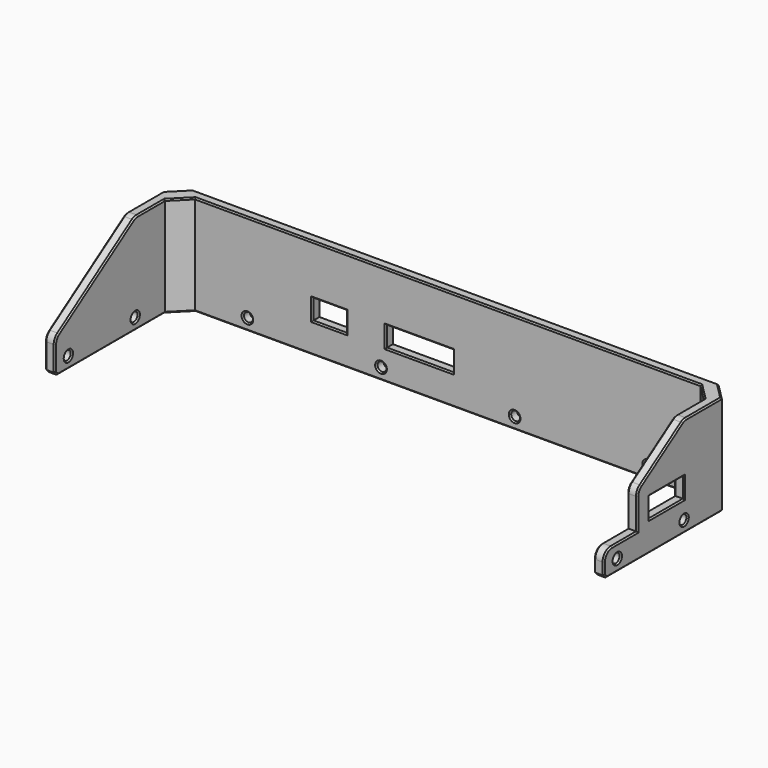
from build123d import *

# Parameters (mm, degrees)
PAD010_DEPTH          = 30
CHAMFER036003003_SIZE = 5
POCKET008013_DEPTH    = 167.301
SKETCH022_R           = 1.35
POCKET008014_DEPTH    = 49.151
SKETCH023_R           = 1.35
POCKET008015_DEPTH    = 167.301
SKETCH024_W           = 13
SKETCH024_H           = 6
POCKET008016_DEPTH    = 5
SKETCH025_W           = 20
SKETCH025_H           = 6
SKETCH025_W_2         = 10
POCKET008017_DEPTH    = 5
CHAMFER036003004_SIZE = 1
FILLET002_R           = 3
SKETCH037_W           = 15
SKETCH037_H           = 15
POCKET008026_DEPTH    = 5
FILLET006_R           = 3
FILLET007_R           = 3
CHAMFER036003010_SIZE = 0.4


with BuildPart() as part:
    # Sketch020 → Pad010 (new body)
    with BuildSketch(Plane.XY):
        Polygon((-80.65, -5), (-80.65, 41.15), (80.65, 41.15), (80.65, -5), (83.65, -5), (83.65, 44.15), (-83.65, 44.15), (-83.65, -5), align=None)
    extrude(amount=PAD010_DEPTH)

    # Chamfer036003003
    chamfer036003003_edges = [part.edges().sort_by_distance(p)[0] for p in [
        (-83.65, 44.15, 15),
        (-80.65, 41.15, 15),
        (80.65, 41.15, 15),
        (83.65, 44.15, 15),
    ]]
    chamfer(chamfer036003003_edges, length=CHAMFER036003003_SIZE)

    # Sketch021 (on Face14 of Chamfer036003003) → Pocket008013 (cut, through all)
    with BuildSketch(Plane.YZ.offset(83.65)):
        Polygon((-5, 10), (25, 30), (-5, 30), align=None)
    extrude(amount=-POCKET008013_DEPTH, mode=Mode.SUBTRACT)

    # Sketch022 (on Face10 of Pocket008013) → Pocket008014 (cut, through all)
    with BuildSketch(Plane(origin=(0, 44.15, 0), x_dir=(-1, 0, 0), z_dir=(0, 1, 0))):
        with Locations((-60, 3.5)):
            Circle(SKETCH022_R)
        with Locations((-20, 3.5)):
            Circle(SKETCH022_R)
        with Locations((20, 3.5)):
            Circle(SKETCH022_R)
        with Locations((60, 3.5)):
            Circle(SKETCH022_R)
    extrude(amount=-POCKET008014_DEPTH, mode=Mode.SUBTRACT)

    # Sketch023 (on Face12 of Pocket008014) → Pocket008015 (cut, through all)
    with BuildSketch(Plane.YZ.offset(83.65)):
        with Locations((0, 3.5)):
            Circle(SKETCH023_R)
        with Locations((25, 3.5)):
            Circle(SKETCH023_R)
    extrude(amount=-POCKET008015_DEPTH, mode=Mode.SUBTRACT)

    # Sketch024 (on Face17 of Pocket008015) → Pocket008016 (cut)
    with BuildSketch(Plane.YZ.offset(83.65)):
        with Locations((18.5, 12)):
            Rectangle(SKETCH024_W, SKETCH024_H)
    extrude(amount=-POCKET008016_DEPTH, mode=Mode.SUBTRACT)

    # Sketch025 (on Face14 of Pocket008016) → Pocket008017 (cut)
    with BuildSketch(Plane(origin=(0, 44.15, 0), x_dir=(-1, 0, 0), z_dir=(0, 1, 0))):
        with Locations((8.5, 12)):
            Rectangle(SKETCH025_W, SKETCH025_H)
        with Locations((35.5, 12)):
            Rectangle(SKETCH025_W_2, SKETCH025_H)
    extrude(amount=-POCKET008017_DEPTH, mode=Mode.SUBTRACT)

    # Chamfer036003004
    chamfer036003004_edges = [part.edges().sort_by_distance(p)[0] for p in [
        (82.15, -5, 0),
        (-82.15, -5, 0),
    ]]
    chamfer(chamfer036003004_edges, length=CHAMFER036003004_SIZE)

    # Fillet002
    fillet002_edges = [part.edges().sort_by_distance(p)[0] for p in [
        (-82.15, 25, 30),
        (-82.15, -5, 10),
        (82.15, 25, 30),
        (82.15, -5, 10),
    ]]
    fillet(fillet002_edges, radius=FILLET002_R)

    # Sketch037 (on Face20 of Fillet002) → Pocket008026 (cut)
    with BuildSketch(Plane.YZ.offset(83.65)):
        with Locations((0, 15)):
            Rectangle(SKETCH037_W, SKETCH037_H)
    extrude(amount=-POCKET008026_DEPTH, mode=Mode.SUBTRACT)

    # Fillet006
    fillet006_edges = [part.edges().sort_by_distance(p)[0] for p in [
        (82.15, 7.5, 18.333333),
    ]]
    fillet(fillet006_edges, radius=FILLET006_R)

    # Fillet007
    fillet007_edges = [part.edges().sort_by_distance(p)[0] for p in [
        (82.15, -5, 7.5),
    ]]
    fillet(fillet007_edges, radius=FILLET007_R)

    # Chamfer036003010
    chamfer036003010_edges = [part.edges().sort_by_distance(p)[0] for p in [
        (83.65, -5, 2.75),
        (83.65, -4.5, 0.5),
        (83.65, 17.575, 0),
        (83.65, -4.12132, 6.62132),
        (83.65, 2.75, 7.5),
        (83.65, 7.5, 12.113891),
        (83.65, 7.854976, 18.143356),
        (83.65, 16.540063, 24.360042),
        (83.65, 32.529163, 30),
        (83.65, 25.038974, 29.871276),
        (81.15, 41.65, 30),
        (0, 44.15, 30),
        (-81.15, 41.65, 30),
        (-83.65, 32.529163, 30),
        (-83.65, 25.038974, 29.871276),
        (-83.65, 10.290063, 20.193375),
        (-83.65, -4.645024, 9.810023),
        (-83.65, -5, 4.697224),
        (-83.65, -4.5, 0.5),
        (-83.65, 17.575, 0),
        (-81.15, 41.65, 0),
        (0, 44.15, 0),
        (81.15, 41.65, 0),
        (78.15, 38.65, 0),
        (0, 41.15, 0),
        (-78.15, 38.65, 0),
        (-80.65, 16.075, 0),
        (-80.65, -4.5, 0.5),
        (-80.65, -5, 4.697224),
        (-80.65, -4.645024, 9.810023),
        (-80.65, 10.290063, 20.193375),
        (-80.65, 25.038974, 29.871276),
        (-80.65, 31.029163, 30),
        (-78.15, 38.65, 30),
        (0, 41.15, 30),
        (78.15, 38.65, 30),
        (80.65, 31.029163, 30),
        (80.65, 25.038974, 29.871276),
        (80.65, 16.540063, 24.360042),
        (80.65, 7.854976, 18.143356),
        (80.65, 7.5, 12.113891),
        (80.65, 2.75, 7.5),
        (80.65, -4.12132, 6.62132),
        (80.65, -5, 2.75),
        (80.65, 16.075, 0),
        (80.65, -4.5, 0.5),
        (-80.65, -1.35, 3.5),
        (-82.15, 1.35, 3.5),
        (-83.65, -1.35, 3.5),
        (-80.65, 23.65, 3.5),
        (-82.15, 26.35, 3.5),
        (-83.65, 23.65, 3.5),
        (-58.65, 44.15, 3.5),
        (-61.35, 42.65, 3.5),
        (-58.65, 41.15, 3.5),
        (-18.65, 44.15, 3.5),
        (-21.35, 42.65, 3.5),
        (-18.65, 41.15, 3.5),
        (21.35, 44.15, 3.5),
        (18.65, 42.65, 3.5),
        (21.35, 41.15, 3.5),
        (61.35, 44.15, 3.5),
        (58.65, 42.65, 3.5),
        (61.35, 41.15, 3.5),
        (83.65, 23.65, 3.5),
        (82.15, 26.35, 3.5),
        (80.65, 23.65, 3.5),
        (83.65, -1.35, 3.5),
        (82.15, 1.35, 3.5),
        (80.65, -1.35, 3.5),
        (80.65, 18.5, 15),
        (80.65, 12, 12),
        (80.65, 18.5, 9),
        (80.65, 25, 12),
        (83.65, 18.5, 15),
        (83.65, 12, 12),
        (83.65, 18.5, 9),
        (83.65, 25, 12),
        (-8.5, 44.15, 9),
        (1.5, 44.15, 12),
        (-8.5, 44.15, 15),
        (1.5, 41.15, 12),
        (-8.5, 41.15, 15),
        (-8.5, 41.15, 9),
        (-18.5, 44.15, 12),
        (-18.5, 41.15, 12),
        (-35.5, 44.15, 9),
        (-30.5, 44.15, 12),
        (-40.5, 44.15, 12),
        (-35.5, 44.15, 15),
        (-35.5, 41.15, 15),
        (-40.5, 41.15, 12),
        (-35.5, 41.15, 9),
        (-30.5, 41.15, 12),
    ]]
    chamfer(chamfer036003010_edges, length=CHAMFER036003010_SIZE)


with BuildPart() as part_1:
    # Body002 placement: moved
    add(part.part.moved(Location((0, 0, -8))))


solid = part_1.part
